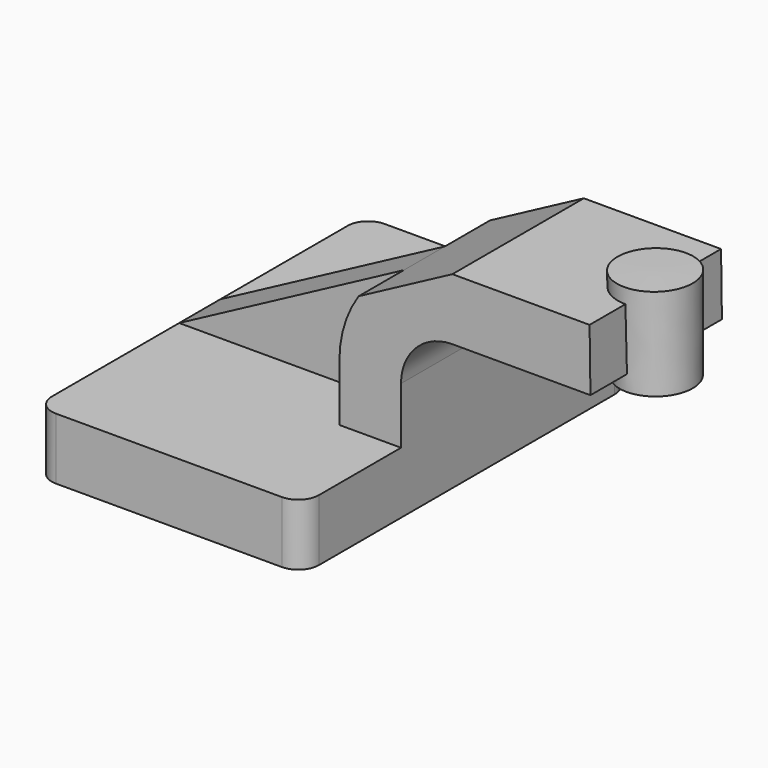
from build123d import *

# Parameters (mm, degrees)
F1_DEPTH = 63.5
F2_DEPTH = 25.4
F3_DEPTH = 7.9375
F5_R     = 6.35


with BuildPart() as f1:
    # F0 (on Front) → F1 (new body, symmetric)
    with BuildSketch(Plane.XZ):
        Polygon((41.275, -9.525), (41.275, 9.525), (22.225, 9.525), (-41.275, 9.525), (-41.275, -9.525), align=None)
    extrude(amount=F1_DEPTH, both=True)

    # F0 (on Front) → F2 (join, symmetric)
    with BuildSketch(Plane.XZ):
        with BuildLine():
            Line((22.225, 9.525), (41.275, 9.525))
            Line((41.275, 9.525), (41.275, 27.0002))
            ThreePointArc((41.275, 27.0002), (45.9246798487, 38.2255201513), (57.15, 42.8752))
            Line((57.15, 42.8752), (60.325, 42.8752))
            Line((60.325, 42.8752), (60.325, 61.9252))
            Line((60.325, 61.9252), (57.15, 61.9252))
            Line((57.15, 61.9252), (28.1752493255, 46.4994166087))
            ThreePointArc((28.1752493255, 46.4994166087), (23.7456680032, 37.1936404813), (22.225, 27.0002))
            Line((22.225, 27.0002), (22.225, 9.525))
        make_face()
        Polygon((60.325, 61.9252), (60.325, 42.8752), (99.8372383581, 42.8752), (99.5686697629, 61.9252), align=None)
    extrude(amount=F2_DEPTH, both=True)

    # F0 (on Front) → F3 (join, symmetric)
    with BuildSketch(Plane.XZ):
        with BuildLine():
            Line((-41.275, 9.525), (22.225, 9.525))
            Line((22.225, 9.525), (22.225, 27.0002))
            ThreePointArc((22.225, 27.0002), (23.7456680032, 37.1936404813), (28.1752493255, 46.4994166087))
            Line((28.1752493255, 46.4994166087), (-41.275, 9.525))
        make_face()
    extrude(amount=F3_DEPTH, both=True)

    # F0 (on Front) → F4 (revolve)
    with BuildSketch(Plane.XZ):
        Polygon((99.5686697629, 61.9252), (99.8372383581, 42.8752), (99.9045595527, 38.1), (111.125, 38.1), (111.125, 66.675), (99.5017066598, 66.675), align=None)
    revolve(axis=Axis((99.7031331062, 0, 52.3875), (0.0140966882, 0, -0.9999006368)))

    # F5
    f5_edges = [f1.edges().sort_by_distance(p)[0] for p in [
        (41.275, -63.5, 0),
        (-41.275, -63.5, 0),
        (41.275, 63.5, 0),
        (-41.275, 63.5, 0),
    ]]
    fillet(f5_edges, radius=F5_R)


solid = f1.part
